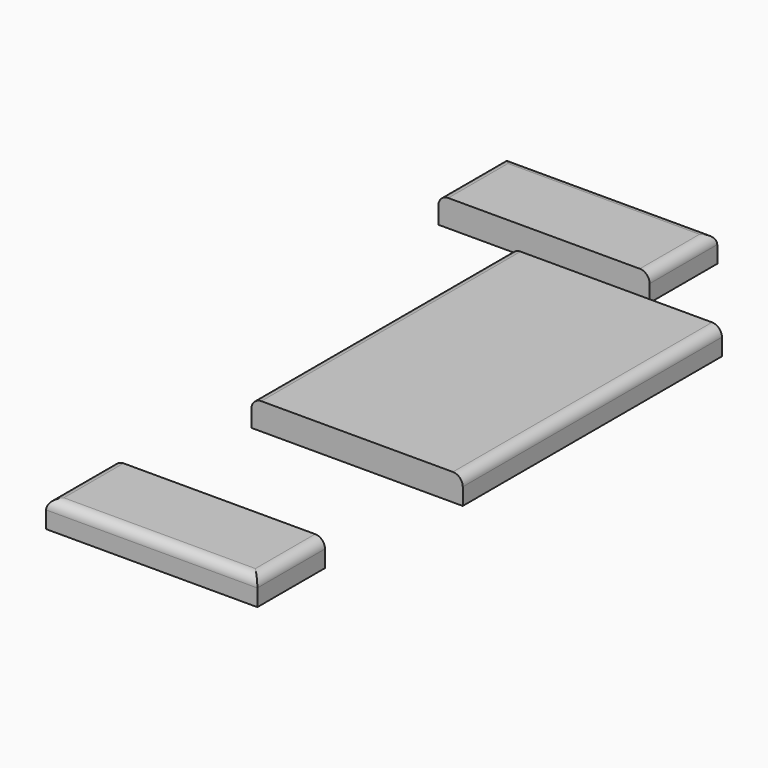
from build123d import *

# Parameters (mm, degrees)
F0_W     = 150
F0_H     = 60
F2_DEPTH = 19
F1_W     = 150
F1_H     = 230
F3_DEPTH = 19
F4_W     = 150
F4_H     = 60
F5_DEPTH = 19
F6_R     = 7
F6_2_R   = 7
F6_3_R   = 7


with BuildPart() as f2:
    # F0 (on Top) → F2 (new body)
    with BuildSketch(Plane.XY):
        with Locations((-237.870327, 55.207736)):
            Rectangle(F0_W, F0_H)
    extrude(amount=F2_DEPTH)

    # F6#3
    f6_3_edges = [f2.edges().sort_by_distance(p)[0] for p in [
        (-162.870327, 55.207736, 19),
        (-237.870327, 85.207736, 19),
        (-312.870327, 55.207736, 19),
    ]]
    fillet(f6_3_edges, radius=F6_3_R)


with BuildPart() as f3:
    # F1 (on Top) → F3 (new body)
    with BuildSketch(Plane.XY):
        with Locations((-166.397809, -115)):
            Rectangle(F1_W, F1_H)
    extrude(amount=F3_DEPTH)

    # F6#2
    f6_2_edges = [f3.edges().sort_by_distance(p)[0] for p in [
        (-91.397809, -115, 19),
        (-241.397809, -115, 19),
    ]]
    fillet(f6_2_edges, radius=F6_2_R)


with BuildPart() as f5:
    # F4 (on Top) → F5 (new body)
    with BuildSketch(Plane.XY):
        with Locations((-179.426356, -365.9956)):
            Rectangle(F4_W, F4_H)
    extrude(amount=F5_DEPTH)

    # F6
    f6_edges = [f5.edges().sort_by_distance(p)[0] for p in [
        (-179.426356, -395.9956, 19),
        (-104.426356, -365.9956, 19),
        (-254.426356, -365.9956, 19),
    ]]
    fillet(f6_edges, radius=F6_R)


solid = Compound([f2.part, f3.part, f5.part])
